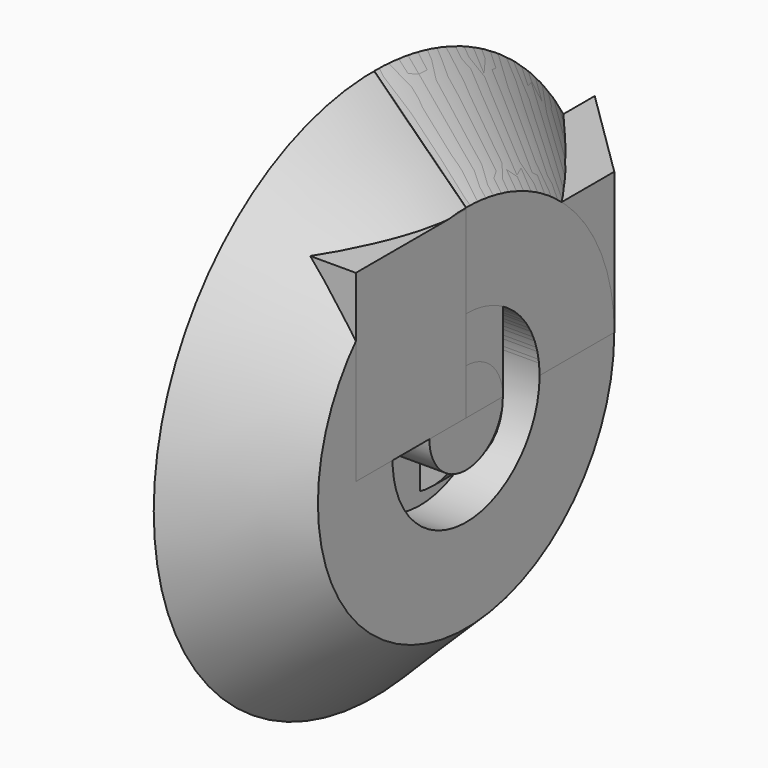
from build123d import *

# Parameters (mm, degrees)
F1_DEPTH = 19.558
F4_ANGLE = 90
F5_W     = 12.7
F5_H     = 19.05
F6_DEPTH = 25.4


with BuildPart() as f1:
    # F0 (on Top) → F1 (new body)
    with BuildSketch(Plane.XY):
        Polygon((0, 38.1), (0, 0), (12.7, 0), (12.7, 6.35), (6.35, 6.35), (6.35, 12.7), (12.7, 12.7), (12.7, 25.6031993777), align=None)
    extrude(amount=F1_DEPTH)


with BuildPart() as f2:
    # F0 (on Top) → F2 (revolve)
    with BuildSketch(Plane.XY):
        Polygon((0, 38.1), (0, 0), (12.7, 0), (12.7, 6.35), (6.35, 6.35), (6.35, 12.7), (12.7, 12.7), (12.7, 25.6031993777), align=None)
    revolve(axis=Axis((0, 19.05, 0), (0, 1, 0)))


with BuildPart() as f3:
    # F0 (on Top) → F3 (revolve)
    with BuildSketch(Plane.XY):
        Polygon((0, 38.1), (0, 0), (12.7, 0), (12.7, 6.35), (6.35, 6.35), (6.35, 12.7), (12.7, 12.7), (12.7, 25.6031993777), align=None)
    revolve(axis=Axis((6.35, 0, 0), (1, 0, 0)))


with BuildPart() as f4:
    # F0 (on Top) → F4 (revolve)
    with BuildSketch(Plane.XY):
        Polygon((0, 38.1), (0, 0), (12.7, 0), (12.7, 6.35), (6.35, 6.35), (6.35, 12.7), (12.7, 12.7), (12.7, 25.6031993777), align=None)
    revolve(axis=Axis((6.35, 0, 0), (1, 0, 0)), revolution_arc=F4_ANGLE)


with BuildPart() as f6:
    # F5 (on Top) → F6 (new body)
    with BuildSketch(Plane.XY):
        with Locations((6.35, -9.525)):
            Rectangle(F5_W, F5_H)
    extrude(amount=F6_DEPTH)


solid = Compound([f1.part, f2.part, f3.part, f4.part, f6.part])
